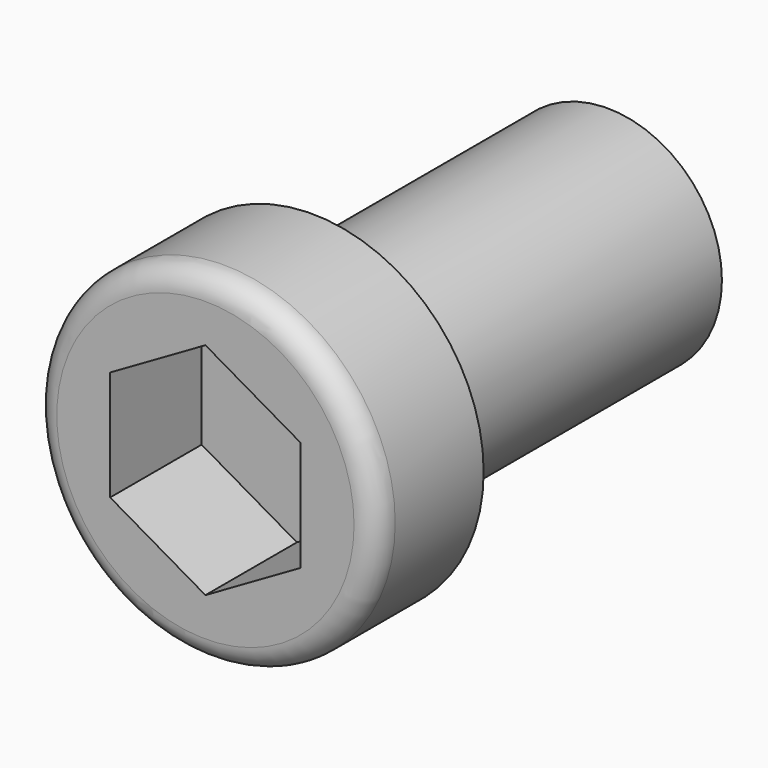
from build123d import *

# Parameters (mm, degrees)
POCKET_DEPTH = 6


with BuildPart() as part:
    # Sketch → Revolution (revolve)
    with BuildSketch(Plane.XY):
        with BuildLine():
            Line((6, 0), (9, 0))
            Line((9, 0), (9, -5.8))
            ThreePointArc((7.8, -7), (8.648528, -6.648528), (9, -5.8))
            Line((7.8, -7), (0, -7))
            Line((0, -7), (0, 20))
            Line((0, 20), (4.925, 20))
            Line((4.925, 20), (6, 19.379348))
            Line((6, 19.379348), (6, 0))
        make_face()
    revolve(axis=Axis((0, 0, 0), (0, 1, 0)))

    # Sketch001 → Pocket (cut)
    with BuildSketch(Plane.XZ.offset(7)):
        Polygon((-5, 2.886751), (-5, -2.886751), (0, -5.773503), (5, -2.886751), (5, 2.886751), (0, 5.773503), align=None)
    extrude(amount=-POCKET_DEPTH, mode=Mode.SUBTRACT)


solid = part.part
